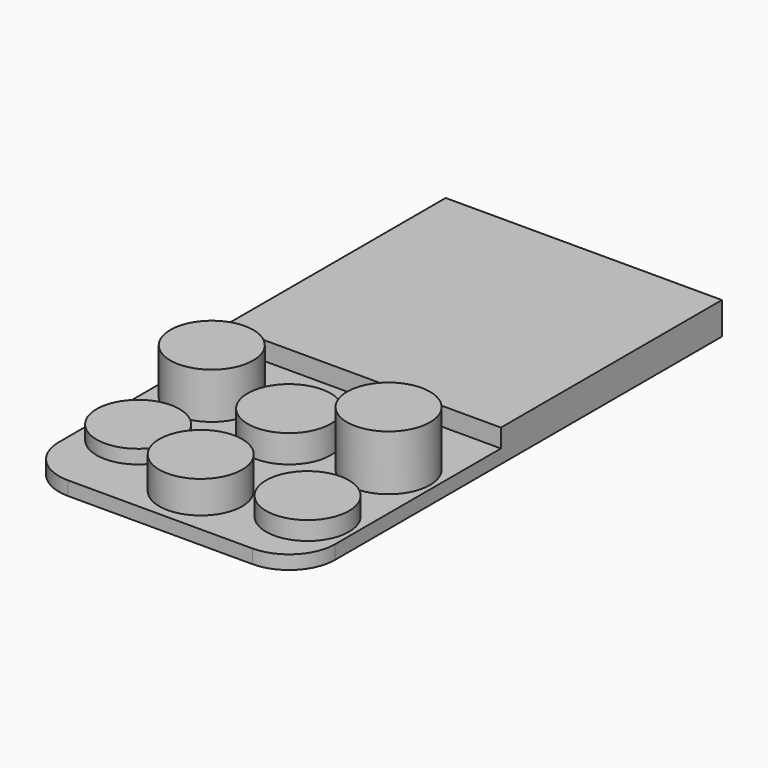
from build123d import *

# Parameters (mm, degrees)
F0_W     = 30
F0_H     = 30
F0_R     = 4.5
F1_DEPTH = 1.5
F2_DEPTH = 2
F3_DEPTH = 5
F4_DEPTH = 3
F5_DEPTH = 6
F6_DEPTH = 2
F7_DEPTH = 3.5
F8_DEPTH = 1.5


with BuildPart() as f1:
    # F0 (on Top) → F1 (new body)
    with BuildSketch(Plane.XY):
        with Locations((0, 3.183698)):
            Rectangle(F0_W, F0_H)
        with BuildLine():
            Line((15, -11.816302), (-15, -11.816302))
            Line((-15, -11.816302), (-15, -34.316302))
            ThreePointArc((-15, -34.316302), (-13.535534, -37.851836), (-10, -39.316302))
            Line((-10, -39.316302), (10, -39.316302))
            ThreePointArc((10, -39.316302), (13.535534, -37.851836), (15, -34.316302))
            Line((15, -34.316302), (15, -11.816302))
        make_face()
        with Locations((-10, -29.816302)):
            Circle(F0_R, mode=Mode.SUBTRACT)
        with Locations((-10, -19.816302)):
            Circle(F0_R, mode=Mode.SUBTRACT)
        with Locations((0, -33.816302)):
            Circle(F0_R, mode=Mode.SUBTRACT)
        with Locations((10, -31.816302)):
            Circle(F0_R, mode=Mode.SUBTRACT)
        with Locations((0, -21.816302)):
            Circle(F0_R, mode=Mode.SUBTRACT)
        with Locations((10, -20.816302)):
            Circle(F0_R, mode=Mode.SUBTRACT)
        with Locations((-10, -19.816302)):
            Circle(F0_R)
        with Locations((0, -21.816302)):
            Circle(F0_R)
        with Locations((10, -20.816302)):
            Circle(F0_R)
        with Locations((10, -31.816302)):
            Circle(F0_R)
        with Locations((0, -33.816302)):
            Circle(F0_R)
        with Locations((-10, -29.816302)):
            Circle(F0_R)
    extrude(amount=-F1_DEPTH)

    # F0 (on Top) → F2 (join)
    with BuildSketch(Plane.XY):
        with Locations((0, 3.183698)):
            Rectangle(F0_W, F0_H)
    extrude(amount=F2_DEPTH)

    # F0 (on Top) → F3 (join)
    with BuildSketch(Plane.XY):
        with Locations((-10, -19.816302)):
            Circle(F0_R)
    extrude(amount=F3_DEPTH)

    # F0 (on Top) → F4 (join)
    with BuildSketch(Plane.XY):
        with Locations((0, -21.816302)):
            Circle(F0_R)
    extrude(amount=F4_DEPTH)

    # F0 (on Top) → F5 (join)
    with BuildSketch(Plane.XY):
        with Locations((10, -20.816302)):
            Circle(F0_R)
    extrude(amount=F5_DEPTH)

    # F0 (on Top) → F6 (join)
    with BuildSketch(Plane.XY):
        with Locations((10, -31.816302)):
            Circle(F0_R)
    extrude(amount=F6_DEPTH)

    # F0 (on Top) → F7 (join)
    with BuildSketch(Plane.XY):
        with Locations((0, -33.816302)):
            Circle(F0_R)
    extrude(amount=F7_DEPTH)

    # F0 (on Top) → F8 (join)
    with BuildSketch(Plane.XY):
        with Locations((-10, -29.816302)):
            Circle(F0_R)
    extrude(amount=F8_DEPTH)


solid = f1.part
